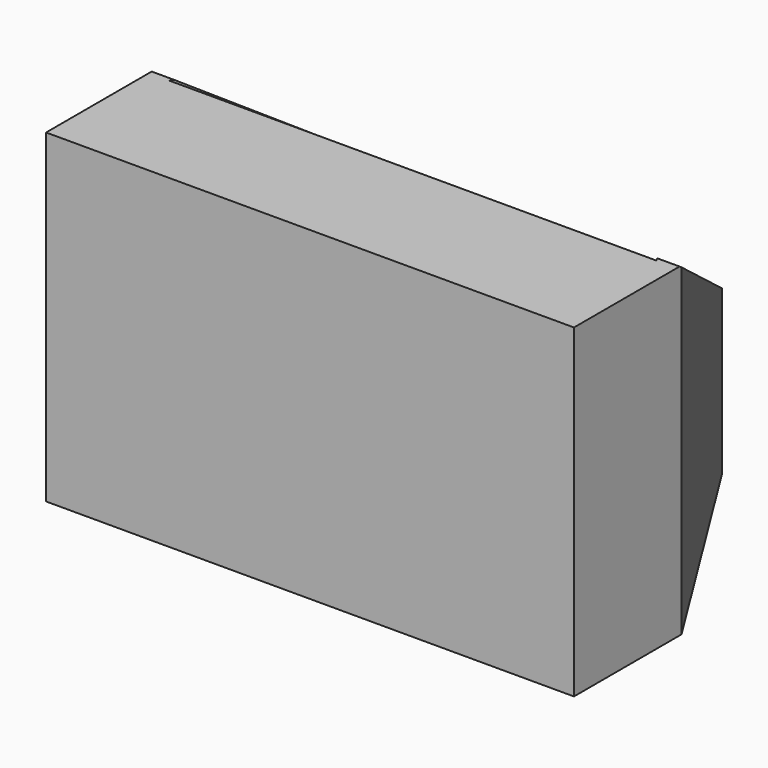
from build123d import *

# Parameters (mm, degrees)
F1_DEPTH  = 177.8
F2_DEPTH  = 304.8
F3_DEPTH  = 304.8
F4_DEPTH  = 304.8
F5_DEPTH  = 304.8
F6_DEPTH  = 304.8
F7_DEPTH  = 19.05
F9_DEPTH  = 304.8
F10_W     = 495.3
F10_H     = 120.65
F11_DEPTH = 19.05


with BuildPart() as f1:
    # F0 (on Top) → F1 (new body)
    with BuildSketch(Plane.XY):
        Polygon((-112.158418, 206.345618), (-101.6, 187.295618), (101.6, 187.295618), (112.184372, 206.304091), (112.158418, 206.345618), align=None)
    extrude(amount=F1_DEPTH)

    # F0 (on Top) → F2 (join)
    with BuildSketch(Plane.XY):
        Polygon((-247.65, -10.440914), (-228.6, -15.904382), (-101.6, 187.295618), (-112.158418, 206.345618), align=None)
    extrude(amount=F2_DEPTH)

    # F0 (on Top) → F3 (join)
    with BuildSketch(Plane.XY):
        Polygon((101.6, 187.295618), (228.6, -15.904382), (247.65, -10.440914), (112.184372, 206.304091), align=None)
    extrude(amount=F3_DEPTH)

    # F0 (on Top) → F4 (join)
    with BuildSketch(Plane.XY):
        Polygon((-247.65, -136.554382), (-228.6, -117.504382), (-228.6, -15.904382), (-247.65, -10.440914), align=None)
    extrude(amount=F4_DEPTH)

    # F0 (on Top) → F5 (join)
    with BuildSketch(Plane.XY):
        Polygon((228.6, -15.904382), (228.6, -117.504382), (247.65, -136.554382), (247.65, -10.440914), align=None)
    extrude(amount=F5_DEPTH)

    # F0 (on Top) → F6 (join)
    with BuildSketch(Plane.XY):
        Polygon((228.6, -117.504382), (-228.6, -117.504382), (-247.65, -136.554382), (247.65, -136.554382), align=None)
    extrude(amount=F6_DEPTH)

    # F0 (on Top) → F7 (join)
    with BuildSketch(Plane.XY):
        Polygon((-228.6, -15.904382), (-228.6, -117.504382), (228.6, -117.504382), (228.6, -15.904382), (101.6, 187.295618), (-101.6, 187.295618), align=None)
    extrude(amount=F7_DEPTH)

    # F8 (on Right) → F9 (cut, symmetric)
    with BuildSketch(Plane.YZ):
        Polygon((-12.7, 311.536975), (-12.7, 304.8), (208.28, 152.4), (208.28, 311.536975), align=None)
    extrude(amount=F9_DEPTH, both=True, mode=Mode.SUBTRACT)

    # F10 (on face) → F11 (join)
    with BuildSketch(Plane.XY.offset(304.8)):
        with Locations((0, -76.229382)):
            Rectangle(F10_W, F10_H)
    extrude(amount=-F11_DEPTH)


solid = f1.part
